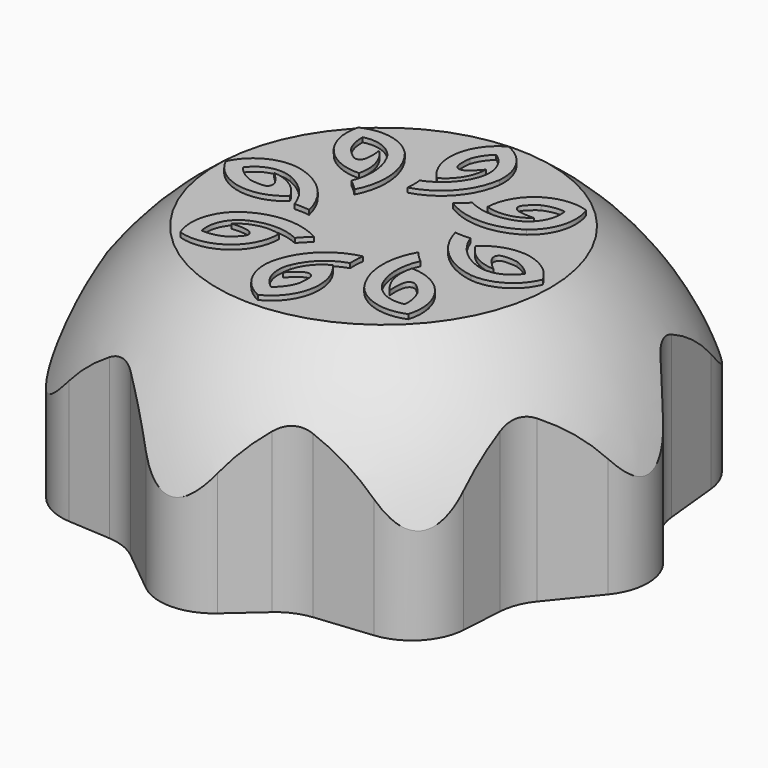
from build123d import *

# Parameters (mm, degrees)
F3_DEPTH = 25
F5_DEPTH = 25.5


with BuildPart() as f2:
    # F1 (on Front) → F2 (revolve)
    with BuildSketch(Plane.XZ):
        with BuildLine():
            Line((0, 0), (31, 0))
            ThreePointArc((31, 0), (21.9203102168, 21.9203102168), (0, 31))
            Line((0, 31), (0, 0))
        make_face()
    revolve(axis=Axis((0, 0, 15.5), (0, 0, 1)))

    # F0 (on Top) → F3 (intersect)
    with BuildSketch(Plane.XY):
        with BuildLine():
            ThreePointArc((3.9712317493, 27.8159791971), (0.0633455085, 29.1616660877), (-3.7876271971, 27.6608472113))
            Line((-3.7876271971, 27.6608472113), (-7.5275399951, 24.3591731083))
            ThreePointArc((-7.5275399951, 24.3591731083), (-9.0920008926, 23.3608852369), (-10.8866869089, 22.8884249985))
            Line((-10.8866869089, 22.8884249985), (-16.953316138, 22.2666239448))
            ThreePointArc((-16.953316138, 22.2666239448), (-20.7031114666, 20.4181818922), (-22.3354043265, 16.5693738887))
            Line((-22.3354043265, 16.5693738887), (-22.5301587854, 12.2695028628))
            ThreePointArc((-22.5301587854, 12.2695028628), (-22.9176897533, 10.4034307195), (-23.8708996778, 8.7530379375))
            Line((-23.8708996778, 8.7530379375), (-27.7623114276, 3.9728253483))
            ThreePointArc((-27.7623114276, 3.9728253483), (-29.1079983182, 0.0649391075), (-27.6071794418, -3.786033598))
            Line((-27.6071794418, -3.786033598), (-24.5179070013, -7.2853521789))
            ThreePointArc((-24.5179070013, -7.2853521789), (-23.5196191299, -8.8498130764), (-23.0471588915, -10.6444990927))
            Line((-23.0471588915, -10.6444990927), (-22.4129664862, -16.8320250871))
            ThreePointArc((-22.4129664862, -16.8320250871), (-20.6012179509, -20.5468622738), (-16.8169298318, -22.2086719832))
            Line((-16.8169298318, -22.2086719832), (-12.1580924422, -22.4986183896))
            ThreePointArc((-12.1580924422, -22.4986183896), (-10.3459554092, -22.8989631758), (-8.7428409186, -23.8339179896))
            Line((-8.7428409186, -23.8339179896), (-3.9191575788, -27.7607178286))
            ThreePointArc((-3.9191575788, -27.7607178286), (-0.011271338, -29.1064047192), (3.8397013676, -27.6055858428))
            Line((3.8397013676, -27.6055858428), (7.3390199484, -24.5163134023))
            ThreePointArc((7.3390199484, -24.5163134023), (8.9034808459, -23.5180255309), (10.6981668623, -23.0455652925))
            Line((10.6981668623, -23.0455652925), (16.8856928566, -22.4113728872))
            ThreePointArc((16.8856928566, -22.4113728872), (20.6005300433, -20.5996243519), (22.2623397527, -16.8153362328))
            Line((22.2623397527, -16.8153362328), (22.5522861592, -12.1564988432))
            ThreePointArc((22.5522861592, -12.1564988432), (22.9526309453, -10.3443618102), (23.8875857591, -8.7412473196))
            Line((23.8875857591, -8.7412473196), (27.8143855981, -3.9175639798))
            ThreePointArc((27.8143855981, -3.9175639798), (29.1600724887, -0.009677739), (27.6592536123, 3.8412949666))
            Line((27.6592536123, 3.8412949666), (24.5699811718, 7.3406135474))
            ThreePointArc((24.5699811718, 7.3406135474), (23.5716933005, 8.9050744449), (23.099233062, 10.6997604613))
            Line((23.099233062, 10.6997604613), (22.4650406567, 16.8872864556))
            ThreePointArc((22.4650406567, 16.8872864556), (20.6532921214, 20.6021236423), (16.8690040023, 22.2639333517))
            Line((16.8690040023, 22.2639333517), (12.2101666127, 22.5538797582))
            ThreePointArc((12.2101666127, 22.5538797582), (10.3980295798, 22.9542245443), (8.7949150891, 23.8891793581))
            Line((8.7949150891, 23.8891793581), (3.9712317493, 27.8159791971))
        make_face()
    extrude(amount=F3_DEPTH, mode=Mode.INTERSECT)

    # F4 (on Top) → F5 (join)
    with BuildSketch(Plane.XY):
        with BuildLine():
            ThreePointArc((-12.0635714856, 3.2227612374), (-15.2973072494, 2.6322304591), (-17.5338706061, 0.2231729792))
            ThreePointArc((-17.5338706061, 0.2231729792), (-13.7620052812, -2.6693299358), (-9.1932834184, -1.3577195967))
            ThreePointArc((-9.1932834184, -1.3577195967), (-10.7344789033, 0.3894586395), (-12.9381445283, 1.1456154517))
            add(Edge.make_bspline(
                [(-13.7632461021, -1.1508455635), (-13.3499106266, -1.2417089519), (-13.038160539, -1.2478071905), (-12.0681542885, -1.2997271154), (-11.6639034969, -0.981703095), (-11.6106635262, -0.4312417793), (-11.9650989953, 0.0976168256), (-12.3433626989, 0.5808645841), (-12.7305823723, 0.9479062888), (-12.9381445283, 1.1456154517)],
                knots=[0, 0, 0, 0, 0.1596659756, 0.3227090771, 0.4414833311, 0.5641742699, 0.7020232023, 0.8404935325, 1, 1, 1, 1], degree=3))
            ThreePointArc((-13.7632461021, -1.1508455635), (-14.8185793431, -0.5835301248), (-15.6751649741, 0.2542264708))
            ThreePointArc((-15.6751649741, 0.2542264708), (-13.7718210883, 1.6221469624), (-11.4312914589, 1.4962681618))
            ThreePointArc((-11.4312914589, 1.4962681618), (-9.2791972018, -0.0114279569), (-7.9670982011, -2.2880600067))
            ThreePointArc((-7.9670982011, -2.2880600067), (-7.1330951048, -2.2785114445), (-6.3028597341, -2.358270888))
            ThreePointArc((-6.3028597341, -2.358270888), (-8.3440570775, 1.29842016), (-12.0635714856, 3.2227612374))
        make_face()
        with BuildLine():
            ThreePointArc((-10.8234167454, -6.4607687627), (-12.5878246734, -9.2343293359), (-12.3405077021, -12.5122262082))
            ThreePointArc((-12.3405077021, -12.5122262082), (-7.655267705, -11.71093518), (-5.5125937193, -7.4680011323))
            ThreePointArc((-5.5125937193, -7.4680011323), (-7.8416909403, -7.4112433429), (-9.8939916251, -8.5139569099))
            add(Edge.make_bspline(
                [(-8.7700583487, -10.679897766), (-8.4225028354, -10.438428232), (-8.2061667969, -10.2138752891), (-7.5088716688, -9.5375711351), (-7.4674463931, -9.0248900192), (-7.8350788128, -8.6117453006), (-8.4639160523, -8.5123488624), (-9.0754870013, -8.4614293185), (-9.6078965569, -8.496052338), (-9.8939916251, -8.5139569099)],
                knots=[0, 0, 0, 0, 0.1596659756, 0.3227090771, 0.4414833311, 0.5641742699, 0.7020232023, 0.8404935325, 1, 1, 1, 1], degree=3))
            ThreePointArc((-8.7700583487, -10.679897766), (-9.9034307196, -11.0685391499), (-11.100129451, -11.1275916932))
            ThreePointArc((-11.100129451, -11.1275916932), (-10.8101298766, -8.8016887147), (-9.1271843647, -7.1702418652))
            ThreePointArc((-9.1271843647, -7.1702418652), (-6.5586081668, -6.6160996514), (-3.9967998826, -7.2007325217))
            ThreePointArc((-3.9967998826, -7.2007325217), (-3.4370239828, -6.5824257358), (-2.8142929901, -6.0275758008))
            ThreePointArc((-2.8142929901, -6.0275758008), (-6.8839893379, -5.0399282664), (-10.8234167454, -6.4607687627))
        make_face()
        with BuildLine():
            ThreePointArc((-6.4655939735, 11.0075619597), (-9.3223651533, 12.6337944204), (-12.5841843835, 12.2259845388))
            ThreePointArc((-12.5841843835, 12.2259845388), (-11.5540329459, 7.5856904578), (-7.211102076, 5.6537244641))
            ThreePointArc((-7.211102076, 5.6537244641), (-7.2686617909, 7.9828020049), (-8.4707193676, 9.9785406887))
            add(Edge.make_bspline(
                [(-10.5789205299, 8.7497145574), (-10.320693046, 8.4144222414), (-10.0857984959, 8.209361626), (-9.3761040824, 7.546080657), (-8.8620081099, 7.5298537905), (-8.4673942128, 7.917309629), (-8.3989637759, 8.5502655525), (-8.3781049126, 9.1635980344), (-8.4388025316, 9.6936683009), (-8.4707193676, 9.9785406887)],
                knots=[0, 0, 0, 0, 0.1596659756, 0.3227090771, 0.4414833311, 0.5641742699, 0.7020232023, 0.8404935325, 1, 1, 1, 1], degree=3))
            ThreePointArc((-10.5789205299, 8.7497145574), (-11.02268936, 9.8626585282), (-11.1403724631, 11.0550199432))
            ThreePointArc((-11.1403724631, 11.0550199432), (-8.803044113, 10.8794619676), (-7.0910077298, 9.278569766))
            ThreePointArc((-7.0910077298, 9.278569766), (-6.4115362674, 6.7402680091), (-6.8698009924, 4.152865698))
            ThreePointArc((-6.8698009924, 4.152865698), (-6.2247798575, 3.6240934643), (-5.6400510474, 3.0293291763))
            ThreePointArc((-5.6400510474, 3.0293291763), (-4.8532232315, 7.1425733951), (-6.4655939735, 11.0075619597))
        make_face()
        with BuildLine():
            ThreePointArc((12.1207171145, -3.1635214874), (15.3281260839, -2.4435900376), (17.4661293939, 0.0533511784))
            ThreePointArc((17.4661293939, 0.0533511784), (13.5811353105, 2.7920300777), (9.0687782544, 1.2979835787))
            ThreePointArc((9.0687782544, 1.2979835787), (10.6789024557, -0.3858855873), (12.911159688, -1.0529260359))
            add(Edge.make_bspline(
                [(13.6433623098, 1.2748207549), (13.2267109772, 1.3490099566), (12.9149675055, 1.3425823959), (11.9436586507, 1.3555018809), (11.5525068954, 1.0214984612), (11.5214181658, 0.4693430071), (11.8968083026, -0.0448536196), (12.2941755705, -0.5125191838), (12.6958243759, -0.8637127567), (12.911159688, -1.0529260359)],
                knots=[0, 0, 0, 0, 0.1596659756, 0.3227090771, 0.4414833311, 0.5641742699, 0.7020232023, 0.8404935325, 1, 1, 1, 1], degree=3))
            ThreePointArc((13.6433623098, 1.2748207549), (14.7206292368, 0.7503486158), (15.6101706966, -0.0523288087))
            ThreePointArc((15.6101706966, -0.0523288087), (13.763302609, -1.4955899373), (11.4196057801, -1.4638158455))
            ThreePointArc((11.4196057801, -1.4638158455), (9.2086940868, -0.0437712116), (7.8062169642, 2.1783258156))
            ThreePointArc((7.8062169642, 2.1783258156), (6.9732702979, 2.1352887312), (6.1405014225, 2.1816389168))
            ThreePointArc((6.1405014225, 2.1816389168), (8.3269161774, -1.3901206684), (12.1207171145, -3.1635214874))
        make_face()
        with BuildLine():
            ThreePointArc((10.5863464808, 6.441729741), (12.4553746501, 9.1458945459), (12.3334028859, 12.4308445423))
            ThreePointArc((12.3334028859, 12.4308445423), (7.6209829112, 11.8090414192), (5.3178572656, 7.6510186435))
            ThreePointArc((5.3178572656, 7.6510186435), (7.6430886229, 7.5053668434), (9.7359991394, 8.5289101407))
            add(Edge.make_bspline(
                [(8.6955909008, 10.7361882153), (8.3390684651, 10.5081660158), (8.1143157582, 10.2920375206), (7.3917048298, 9.6428524541), (7.3307332951, 9.1321270366), (7.6823218799, 8.7052457632), (8.3069051094, 8.581909981), (8.9160857063, 8.507675044), (9.4494290416, 8.5219430224), (9.7359991394, 8.5289101407)],
                knots=[0, 0, 0, 0, 0.1596659756, 0.3227090771, 0.4414833311, 0.5641742699, 0.7020232023, 0.8404935325, 1, 1, 1, 1], degree=3))
            ThreePointArc((8.6955909008, 10.7361882153), (9.8429767857, 11.0812689126), (11.0410576637, 11.0945830512))
            ThreePointArc((11.0410576637, 11.0945830512), (10.6624561509, 8.7814498269), (8.9184420249, 7.2154552079))
            ThreePointArc((8.9184420249, 7.2154552079), (6.3305794324, 6.7597969145), (3.7929633708, 7.4418247741))
            ThreePointArc((3.7929633708, 7.4418247741), (3.209985979, 6.8453436761), (2.566522475, 6.3146770589))
            ThreePointArc((2.566522475, 6.3146770589), (6.5955379949, 5.1723505054), (10.5863464808, 6.441729741))
        make_face()
        with BuildLine():
            ThreePointArc((3.0005989465, 12.2027987159), (2.2477758036, 15.4026472912), (-0.2709841386, 17.5149024708))
            ThreePointArc((-0.2709841386, 17.5149024708), (-2.9696324701, 13.601995837), (-1.4293375135, 9.1052155902))
            ThreePointArc((-1.4293375135, 9.1052155902), (0.2379121773, 10.7325427791), (0.8819994635, 12.9715306932))
            add(Edge.make_bspline(
                [(-1.4531419794, 13.6797963517), (-1.5230496197, 13.2624052971), (-1.5134218084, 12.9507442457), (-1.5163684362, 11.9793539422), (-1.1783667663, 11.5916519288), (-0.6259212333, 11.5662336747), (-0.1156057402, 11.9468831503), (0.3479555092, 12.3490308764), (0.6950069485, 12.7542641264), (0.8819994635, 12.9715306932)],
                knots=[0, 0, 0, 0, 0.1596659756, 0.3227090771, 0.4414833311, 0.5641742699, 0.7020232023, 0.8404935325, 1, 1, 1, 1], degree=3))
            ThreePointArc((-1.4531419794, 13.6797963517), (-0.9397575026, 14.7623911215), (-0.1462550743, 15.6601265797))
            ThreePointArc((-0.1462550743, 15.6601265797), (1.3158913041, 13.828173418), (1.3081810148, 11.4842738958))
            ThreePointArc((1.3081810148, 11.4842738958), (-0.0890899192, 9.258899497), (-2.296670963, 7.8336825969))
            ThreePointArc((-2.296670963, 7.8336825969), (-2.2450844993, 7.0012216811), (-2.2828824198, 6.1680208309))
            ThreePointArc((-2.2828824198, 6.1680208309), (1.2662415644, 8.3909906821), (3.0005989465, 12.2027987159))
        make_face()
        with BuildLine():
            ThreePointArc((-2.8695863679, -11.9810739766), (-2.2790555896, -15.2148097404), (0.1300018903, -17.4513730971))
            ThreePointArc((0.1300018903, -17.4513730971), (3.0225048053, -13.6795077722), (1.7108944662, -9.1107859094))
            ThreePointArc((1.7108944662, -9.1107859094), (-0.0362837699, -10.6519813943), (-0.7924405822, -12.8556470193))
            add(Edge.make_bspline(
                [(1.5040204331, -13.6807485931), (1.5948838214, -13.2674131176), (1.60098206, -12.95566303), (1.6529019849, -11.9856567795), (1.3348779645, -11.5814059879), (0.7844166488, -11.5281660172), (0.2555580439, -11.8826014863), (-0.2276897146, -12.2608651899), (-0.5947314193, -12.6480848633), (-0.7924405822, -12.8556470193)],
                knots=[0, 0, 0, 0, 0.1596659756, 0.3227090771, 0.4414833311, 0.5641742699, 0.7020232023, 0.8404935325, 1, 1, 1, 1], degree=3))
            ThreePointArc((1.5040204331, -13.6807485931), (0.9367049943, -14.7360818341), (0.0989483987, -15.5926674651))
            ThreePointArc((0.0989483987, -15.5926674651), (-1.2689720929, -13.6893235793), (-1.1430932922, -11.3487939499))
            ThreePointArc((-1.1430932922, -11.3487939499), (0.3646028264, -9.1966996928), (2.6412348762, -7.8846006921))
            ThreePointArc((2.6412348762, -7.8846006921), (2.631686314, -7.0505975958), (2.7114457575, -6.2203622251))
            ThreePointArc((2.7114457575, -6.2203622251), (-0.9452452904, -8.2615595685), (-2.8695863679, -11.9810739766))
        make_face()
        with BuildLine():
            ThreePointArc((6.4052319301, -10.6719006676), (9.1819316925, -12.4313642277), (12.4593827252, -12.1782075208))
            ThreePointArc((12.4593827252, -12.1782075208), (11.6497454207, -7.4944025956), (7.4030005709, -5.3592915159))
            ThreePointArc((7.4030005709, -5.3592915159), (7.3503925525, -7.6884861638), (8.4567608904, -9.7388189203))
            add(Edge.make_bspline(
                [(10.6206958313, -8.6110284375), (10.3786074517, -8.2639036947), (10.1536694259, -8.0479680787), (9.476123996, -7.3518790077), (8.9633698877, -7.3113672258), (8.5508808241, -7.6797351493), (8.4526049237, -8.3087484823), (8.4027750778, -8.9204091824), (8.43834662, -9.4527562063), (8.4567608904, -9.7388189203)],
                knots=[0, 0, 0, 0, 0.1596659756, 0.3227090771, 0.4414833311, 0.5641742699, 0.7020232023, 0.8404935325, 1, 1, 1, 1], degree=3))
            ThreePointArc((10.6206958313, -8.6110284375), (11.0113558931, -9.7437065792), (11.0725404641, -10.9402981992))
            ThreePointArc((11.0725404641, -10.9402981992), (8.7461244938, -10.6544430748), (7.1116817815, -8.9744069328))
            ThreePointArc((7.1116817815, -8.9744069328), (6.5529640939, -6.4068221098), (7.1330317412, -3.8439762693))
            ThreePointArc((7.1330317412, -3.8439762693), (6.5137286011, -3.2853028761), (5.9577700461, -2.6635614309))
            ThreePointArc((5.9577700461, -2.6635614309), (4.9773749322, -6.7350109805), (6.4052319301, -10.6719006676))
        make_face()
    extrude(amount=F5_DEPTH)


solid = f2.part
